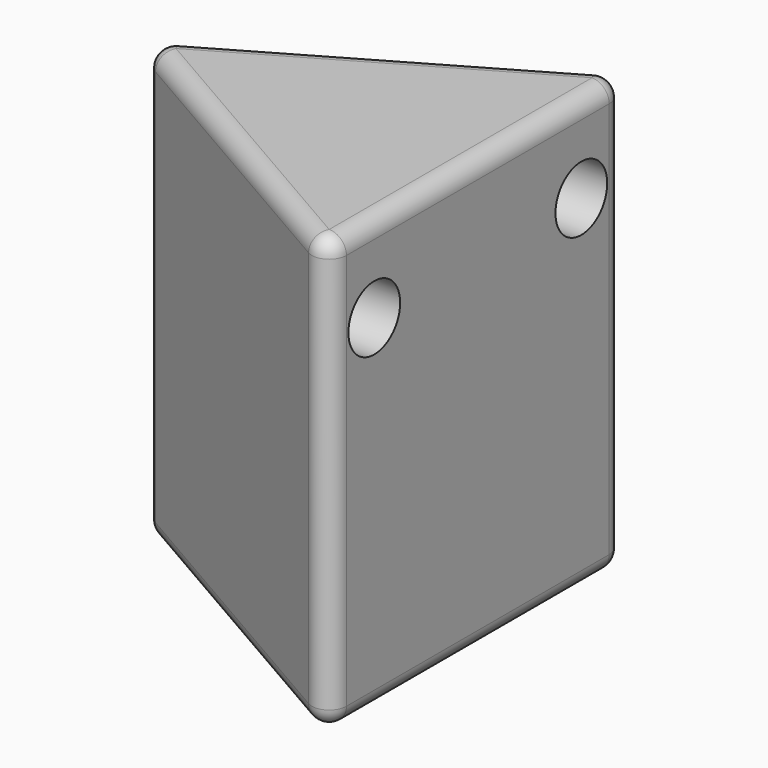
from build123d import *

# Parameters (mm, degrees)
F1_DEPTH = 100
F2_R     = 7.5
F3_DEPTH = 10
F4_R     = 4
F6_DEPTH = 25


with BuildPart() as f1:
    # F0 (on Top) → F1 (new body)
    with BuildSketch(Plane.XY):
        Polygon((25.9807621135, -45), (25.9807621135, 45), (-51.9615242271, 0), align=None)
    extrude(amount=F1_DEPTH)

    # F2 (on face) → F3 (cut)
    with BuildSketch(Plane.YZ.offset(25.9807621135)):
        with Locations((-30, 80)):
            Circle(F2_R)
        with Locations((30, 80)):
            Circle(F2_R)
    extrude(amount=-F3_DEPTH, mode=Mode.SUBTRACT)

    # F4
    f4_edges = [f1.edges().sort_by_distance(p)[0] for p in [
        (25.980762, -45, 50),
        (25.980762, 45, 50),
        (-51.961524, 0, 50),
        (-12.990381, -22.5, 100),
        (-12.990381, 22.5, 100),
        (25.980762, 0, 100),
        (-12.990381, -22.5, 0),
        (25.980762, 0, 0),
        (-12.990381, 22.5, 0),
    ]]
    fillet(f4_edges, radius=F4_R)

    # F5 (on face) → F6 (cut)
    with BuildSketch(Plane(origin=(0, 0, 0), x_dir=(1, 0, 0), z_dir=(0, 0, -1))):
        with BuildLine():
            Line((12.2403810568, -21.2009618943), (9.7403810568, -16.8708348754))
            ThreePointArc((9.7403810568, -16.8708348754), (8.8253175473, -20.2858983849), (12.2403810568, -21.2009618943))
        make_face()
        with BuildLine():
            ThreePointArc((13.4903810568, -19.0358983849), (12.2403810568, -16.8708348754), (9.7403810568, -16.8708348754))
            Line((9.7403810568, -16.8708348754), (12.2403810568, -21.2009618943))
            ThreePointArc((12.2403810568, -21.2009618943), (13.1554445662, -20.2858983849), (13.4903810568, -19.0358983849))
        make_face()
        with BuildLine():
            ThreePointArc((-24.4807621135, 0), (-21.9807621135, -2.5), (-19.4807621135, 0))
            Line((-19.4807621135, 0), (-24.4807621135, 0))
        make_face()
        with BuildLine():
            Line((-24.4807621135, 0), (-19.4807621135, 0))
            ThreePointArc((-19.4807621135, 0), (-21.9807621135, 2.5), (-24.4807621135, 0))
        make_face()
        with BuildLine():
            ThreePointArc((12.2403810568, 21.2009618943), (8.8253175473, 20.2858983849), (9.7403810568, 16.8708348754))
            Line((9.7403810568, 16.8708348754), (12.2403810568, 21.2009618943))
        make_face()
        with BuildLine():
            Line((12.2403810568, 21.2009618943), (9.7403810568, 16.8708348754))
            ThreePointArc((9.7403810568, 16.8708348754), (12.2403810568, 16.8708348754), (13.4903810568, 19.0358983849))
            ThreePointArc((13.4903810568, 19.0358983849), (13.1554445662, 20.2858983849), (12.2403810568, 21.2009618943))
        make_face()
    extrude(amount=-F6_DEPTH, mode=Mode.SUBTRACT)


solid = f1.part
